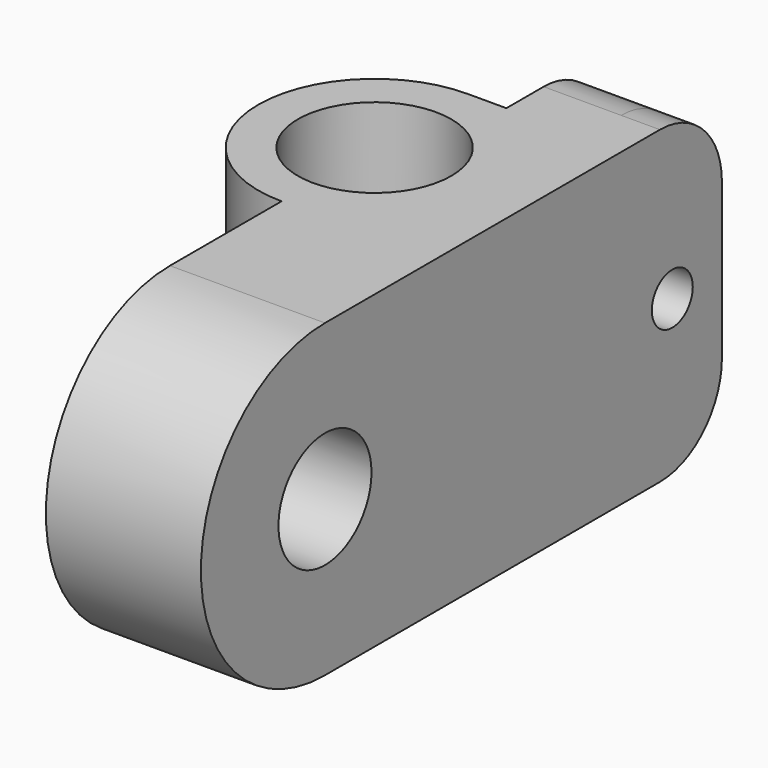
from build123d import *

# Parameters (mm, degrees)
F0_R        = 6.2865
F1_DEPTH    = 25.4
F2_R        = 4.7625
F3_DEPTH    = 9.525
F4_R        = 2.0955
F5_DEPTH    = 6.35
F5_FACE_R   = 4.7625
F5_FACE_R_2 = 2.0955
F6_DEPTH    = 3.175


with BuildPart() as f1:
    # F0 (on Top) → F1 (new body)
    with BuildSketch(Plane.XY):
        with BuildLine():
            Line((9.525, -9.525), (9.525, 9.525))
            Line((9.525, 9.525), (0, 9.525))
            ThreePointArc((0, 9.525), (-6.735192, 6.735192), (-9.525, 0))
            ThreePointArc((-9.525, 0), (-6.735192, -6.735192), (0, -9.525))
            Line((0, -9.525), (9.525, -9.525))
        make_face()
        Circle(F0_R, mode=Mode.SUBTRACT)
    extrude(amount=F1_DEPTH)

    # F2 (on face) → F3 (join)
    with BuildSketch(Plane.YZ.offset(9.525)):
        with BuildLine():
            Line((-9.525, 25.4), (-20.955, 25.4))
            ThreePointArc((-20.955, 25.4), (-33.655, 12.7), (-20.955, 0))
            Line((-20.955, 0), (-9.525, 0))
            Line((-9.525, 0), (-9.525, 25.4))
        make_face()
        with Locations((-20.955, 12.7)):
            Circle(F2_R, mode=Mode.SUBTRACT)
    extrude(amount=-F3_DEPTH)

    # F4 (on face) → F5 (join)
    with BuildSketch(Plane.YZ.offset(9.525)):
        with BuildLine():
            Line((13.335, 25.4), (9.525, 25.4))
            Line((9.525, 25.4), (9.525, 0))
            Line((9.525, 0), (13.335, 0))
            ThreePointArc((13.335, 0), (17.825128, 1.859872), (19.685, 6.35))
            Line((19.685, 6.35), (19.685, 19.05))
            ThreePointArc((19.685, 19.05), (17.825128, 23.540128), (13.335, 25.4))
        make_face()
        with Locations((14.605, 12.7)):
            Circle(F4_R, mode=Mode.SUBTRACT)
    extrude(amount=-F5_DEPTH)

    # F5_face (on face) → F6 (join)
    with BuildSketch(Plane(origin=(9.525, -5.370405, 12.7), x_dir=(0, 1, 0), z_dir=(1, 0, 0))):
        with BuildLine():
            ThreePointArc((-15.584595, 12.7), (-28.284595, 0), (-15.584595, -12.7))
            Line((-15.584595, -12.7), (18.705405, -12.7))
            ThreePointArc((18.705405, -12.7), (23.195534, -10.840128), (25.055405, -6.35))
            Line((25.055405, -6.35), (25.055405, 6.35))
            ThreePointArc((25.055405, 6.35), (23.195534, 10.840128), (18.705405, 12.7))
            Line((18.705405, 12.7), (-15.584595, 12.7))
        make_face()
        with Locations((-15.584595, 0)):
            Circle(F5_FACE_R, mode=Mode.SUBTRACT)
        with Locations((19.975405, 0)):
            Circle(F5_FACE_R_2, mode=Mode.SUBTRACT)
    extrude(amount=F6_DEPTH)


solid = f1.part
